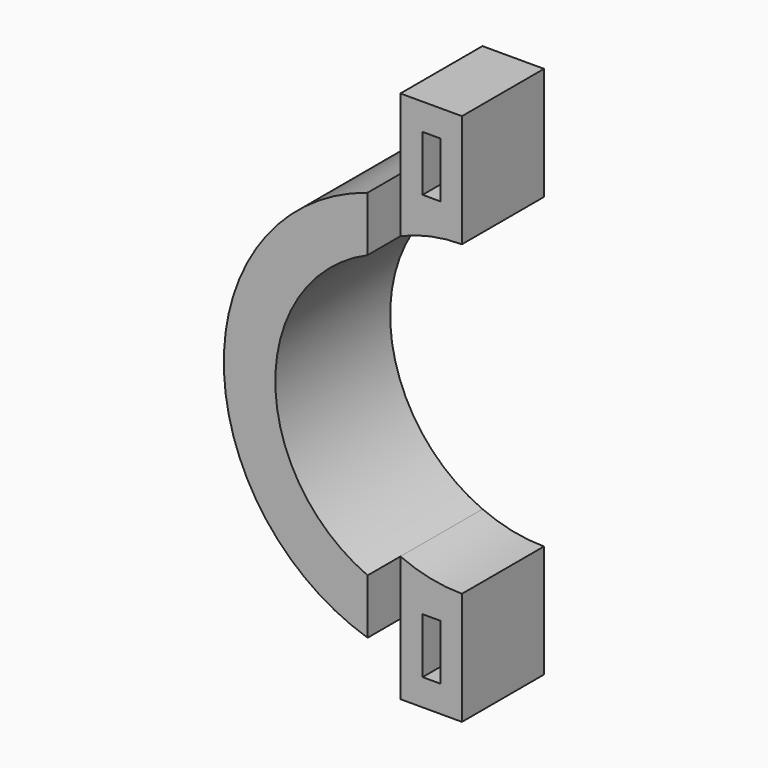
from build123d import *

# Parameters (mm, degrees)
F1_DEPTH = 12.7
F2_DEPTH = 17.78


with BuildPart() as f1:
    # F0 (on Front) → F1 (new body)
    with BuildSketch(Plane.XZ):
        with BuildLine():
            ThreePointArc((-7.62, 17.4596133978), (-3.8920987123, 18.6481652613), (0, 19.05))
            Line((0, 19.05), (0, 25.4309050116))
            ThreePointArc((0, 25.4309050116), (-1.335031029, 25.3955492468), (-2.6663651194, 25.2901575092))
            Line((-2.6663651194, 25.2901575092), (-2.6663651194, 22.86))
            Line((-2.6663651194, 22.86), (-4.8713176481, 22.86))
            Line((-4.8713176481, 22.86), (-4.8713176481, 24.9589173434))
            ThreePointArc((-4.8713176481, 24.9589173434), (-6.2553989589, 24.6481649221), (-7.62, 24.260721841))
            Line((-7.62, 24.260721841), (-7.62, 17.4596133978))
        make_face()
        with BuildLine():
            ThreePointArc((-7.62, -17.4596133978), (-19.05, 0), (-7.62, 17.4596133978))
            Line((-7.62, 17.4596133978), (-7.62, 24.260721841))
            ThreePointArc((-7.62, 24.260721841), (-25.4254, 0), (-7.62, -24.260721841))
            Line((-7.62, -24.260721841), (-7.62, -17.4596133978))
        make_face()
        with BuildLine():
            ThreePointArc((-2.6663651194, 25.2901575092), (-1.335031029, 25.3955492468), (0, 25.4309050116))
            Line((0, 25.4309050116), (0, 33.02))
            Line((0, 33.02), (-7.62, 33.02))
            Line((-7.62, 33.02), (-7.62, 24.260721841))
            ThreePointArc((-7.62, 24.260721841), (-6.2553989589, 24.6481649221), (-4.8713176481, 24.9589173434))
            Line((-4.8713176481, 24.9589173434), (-4.8713176481, 29.7198501384))
            Line((-4.8713176481, 29.7198501384), (-2.6663651194, 29.7198501384))
            Line((-2.6663651194, 29.7198501384), (-2.6663651194, 25.2901575092))
        make_face()
        with BuildLine():
            ThreePointArc((0, -19.05), (-3.8920987123, -18.6481652613), (-7.62, -17.4596133978))
            Line((-7.62, -17.4596133978), (-7.62, -24.260721841))
            ThreePointArc((-7.62, -24.260721841), (-6.2553989589, -24.6481649221), (-4.8713176481, -24.9589173434))
            Line((-4.8713176481, -24.9589173434), (-4.8713176481, -22.86))
            Line((-4.8713176481, -22.86), (-2.6663651194, -22.86))
            Line((-2.6663651194, -22.86), (-2.6663651194, -25.2901575092))
            ThreePointArc((-2.6663651194, -25.2901575092), (-1.335031029, -25.3955492468), (0, -25.4309050116))
            Line((0, -25.4309050116), (0, -19.05))
        make_face()
        with BuildLine():
            ThreePointArc((-4.8713176481, -24.9589173434), (-6.2553989589, -24.6481649221), (-7.62, -24.260721841))
            Line((-7.62, -24.260721841), (-7.62, -33.02))
            Line((-7.62, -33.02), (0, -33.02))
            Line((0, -33.02), (0, -25.4309050116))
            ThreePointArc((0, -25.4309050116), (-1.335031029, -25.3955492468), (-2.6663651194, -25.2901575092))
            Line((-2.6663651194, -25.2901575092), (-2.6663651194, -29.7198501384))
            Line((-2.6663651194, -29.7198501384), (-4.8713176481, -29.7198501384))
            Line((-4.8713176481, -29.7198501384), (-4.8713176481, -24.9589173434))
        make_face()
        with BuildLine():
            ThreePointArc((-7.62, -17.4596133978), (-19.05, 0), (-7.62, 17.4596133978))
            Line((-7.62, 17.4596133978), (-7.62, 24.260721841))
            ThreePointArc((-7.62, 24.260721841), (-25.4254, 0), (-7.62, -24.260721841))
            Line((-7.62, -24.260721841), (-7.62, -17.4596133978))
        make_face()
    extrude(amount=F1_DEPTH)

    # F0 (on Front) → F2 (join)
    with BuildSketch(Plane.XZ):
        with BuildLine():
            ThreePointArc((-7.62, -17.4596133978), (-19.05, 0), (-7.62, 17.4596133978))
            Line((-7.62, 17.4596133978), (-7.62, 24.260721841))
            ThreePointArc((-7.62, 24.260721841), (-25.4254, 0), (-7.62, -24.260721841))
            Line((-7.62, -24.260721841), (-7.62, -17.4596133978))
        make_face()
    extrude(amount=F2_DEPTH)


solid = f1.part
